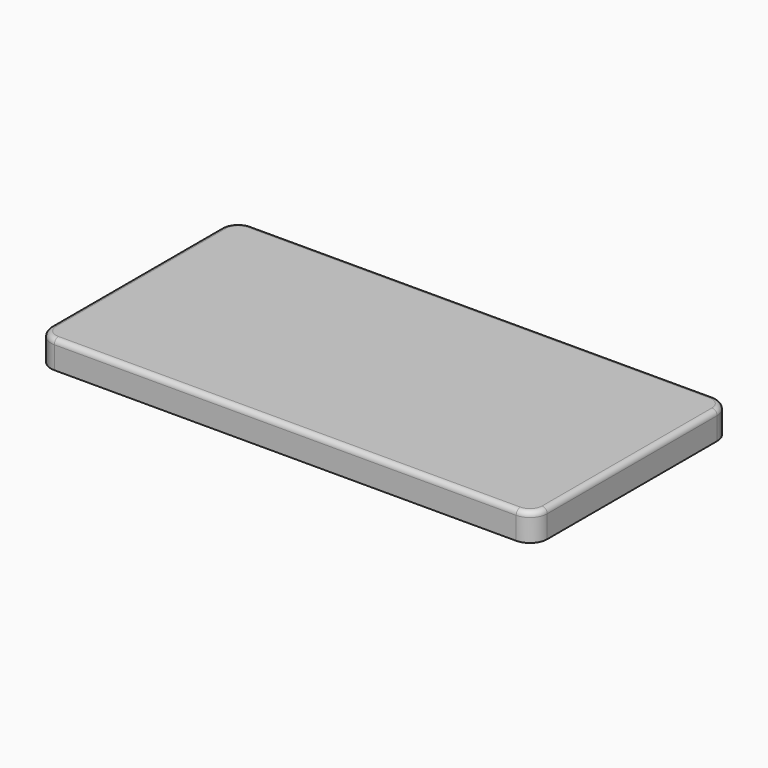
from build123d import *

# Parameters (mm, degrees)
F1_DEPTH = 8
F2_R     = 1.5


with BuildPart() as f1:
    # F0 (on Top) → F1 (new body)
    with BuildSketch(Plane.XY):
        with BuildLine():
            Line((66.435854, 56.380685), (-67.533019, 56.380685))
            ThreePointArc((-67.533019, 56.380685), (-71.068553, 54.916219), (-72.533019, 51.380685))
            Line((-72.533019, 51.380685), (-72.533019, -10.221572))
            ThreePointArc((-72.533019, -10.221572), (-71.068553, -13.757106), (-67.533019, -15.221572))
            Line((-67.533019, -15.221572), (66.435854, -15.221572))
            ThreePointArc((66.435854, -15.221572), (69.971388, -13.757106), (71.435854, -10.221572))
            Line((71.435854, -10.221572), (71.435854, 51.380685))
            ThreePointArc((71.435854, 51.380685), (69.971388, 54.916219), (66.435854, 56.380685))
        make_face()
    extrude(amount=F1_DEPTH)

    # F2
    f2_edges = [f1.edges().sort_by_distance(p)[0] for p in [
        (-0.548583, 56.380685, 8),
        (-71.068553, 54.916219, 8),
        (-72.533019, 20.579556, 8),
        (-71.068553, -13.757106, 8),
        (-0.548583, -15.221572, 8),
        (69.971388, -13.757106, 8),
        (71.435854, 20.579556, 8),
        (69.971388, 54.916219, 8),
    ]]
    fillet(f2_edges, radius=F2_R)


solid = f1.part
